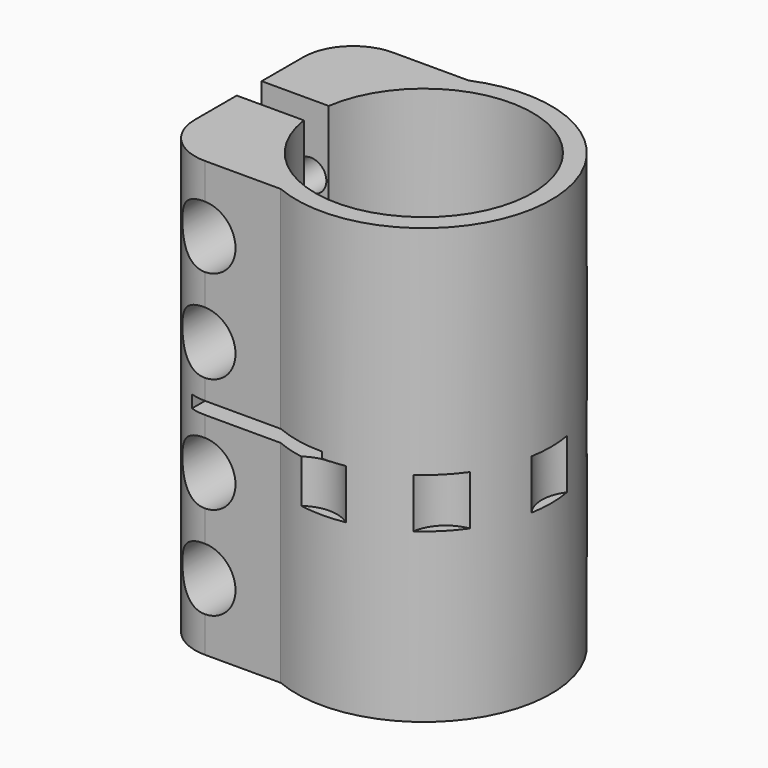
from build123d import *

# Parameters (mm, degrees)
F1_DEPTH       = 35
F3_D           = 5
F3_START       = 1.8205079
F3_CBORE_D     = 10
F3_CBORE_DEPTH = 8
F4_W           = 22.5
F4_H           = 2
F5_DEPTH       = 25
F6_R           = 6
F7_DEPTH       = 8


with BuildPart() as f1:
    # F0 (on Top) → F1 (new body, symmetric)
    with BuildSketch(Plane.XY):
        with BuildLine():
            ThreePointArc((-17.3192642082, 2.5086026559), (17.5, 0), (-17.3192642082, -2.5086026559))
            Line((-17.3192642082, -2.5086026559), (-28.1192642082, -2.5086026559))
            Line((-28.1192642082, -2.5086026559), (-28.1192642082, -10.9086026559))
            ThreePointArc((-28.1192642082, -10.9086026559), (-25.7761184577, -16.5654569054), (-20.1192642082, -18.9086026559))
            Line((-20.1192642082, -18.9086026559), (-7.9192642082, -18.9086026559))
            ThreePointArc((-7.9192642082, -18.9086026559), (20.5, 0), (-7.9192642082, 18.9086026559))
            Line((-7.9192642082, 18.9086026559), (-20.1192642082, 18.9086026559))
            ThreePointArc((-20.1192642082, 18.9086026559), (-25.7761184577, 16.5654569054), (-28.1192642082, 10.9086026559))
            Line((-28.1192642082, 10.9086026559), (-28.1192642082, 2.5086026559))
            Line((-28.1192642082, 2.5086026559), (-17.3192642082, 2.5086026559))
        make_face()
    extrude(amount=F1_DEPTH, both=True)

    # F3 (through all)
    # its depths count from where the whole tool has entered the part; down to there all is cleared
    with Locations(Plane.XZ.offset(18.9086026559).offset(-F3_START)):
        with Locations((-20.2, 24.25), (-20.2, 9.25), (-20.2, -9.25), (-20.2, -24.25)):
            CounterBoreHole(F3_D / 2, F3_CBORE_D / 2, F3_CBORE_DEPTH)

    # F4 (on Front) → F5 (cut, symmetric)
    with BuildSketch(Plane.XZ):
        with Locations((-11.25, 0)):
            Rectangle(F4_W, F4_H)
    extrude(amount=F5_DEPTH, both=True, mode=Mode.SUBTRACT)

    # F6 (on Top) → F7 (cut)
    with BuildSketch(Plane.XY):
        with Locations((0, -25)):
            Circle(F6_R)
        with Locations((17.6776695297, -17.6776695297)):
            Circle(F6_R)
        with Locations((25, 0)):
            Circle(F6_R)
        with Locations((17.6776695297, 17.6776695297)):
            Circle(F6_R)
        with Locations((0, 25)):
            Circle(F6_R)
    extrude(amount=-F7_DEPTH, mode=Mode.SUBTRACT)


solid = f1.part
